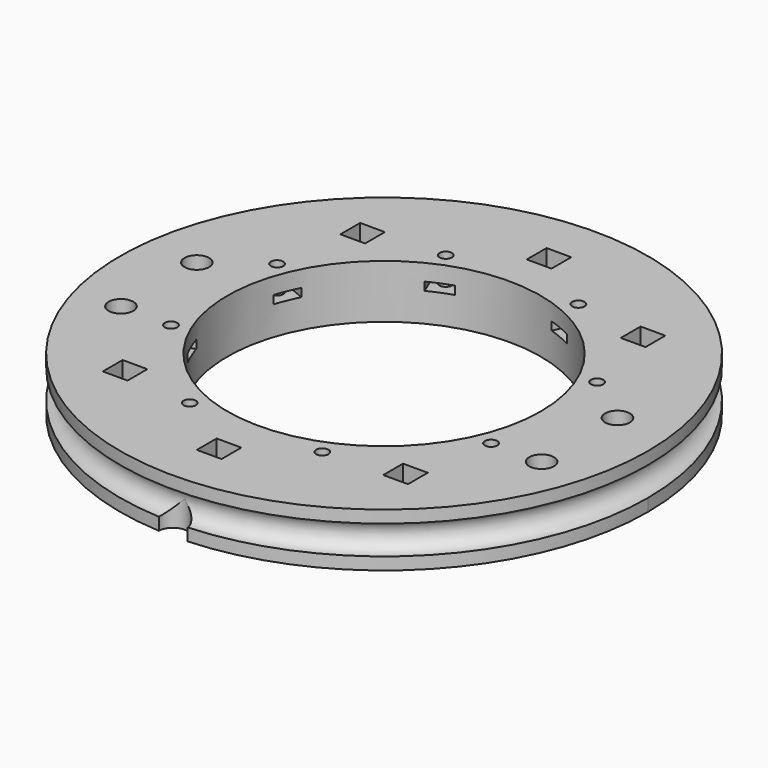
from build123d import *

# Parameters (mm, degrees)
BOX158_W                    = 6
BOX158_H                    = 8
BOX158_DEPTH                = 2
BOX158_PLACEMENT_ANGLE      = 67.5
BOX159_W                    = 6
BOX159_H                    = 8
BOX159_DEPTH                = 2
BOX159_PLACEMENT_ANGLE      = 112.5
BOX160_W                    = 6
BOX160_H                    = 8
BOX160_DEPTH                = 2
BOX160_PLACEMENT_ANGLE      = 157.5
BOX161_W                    = 6
BOX161_H                    = 8
BOX161_DEPTH                = 2
BOX161_PLACEMENT_ANGLE      = 202.5
BOX162_W                    = 6
BOX162_H                    = 8
BOX162_DEPTH                = 2
BOX162_PLACEMENT_ANGLE      = 112.5
BOX163_W                    = 6
BOX163_H                    = 8
BOX163_DEPTH                = 2
BOX163_PLACEMENT_ANGLE      = 67.5
BOX164_W                    = 6
BOX164_H                    = 8
BOX164_DEPTH                = 2
BOX164_PLACEMENT_ANGLE      = 22.5
BOX157_W                    = 6
BOX157_H                    = 8
BOX157_DEPTH                = 2
BOX157_PLACEMENT_ANGLE      = 22.5
CYLINDER469_R               = 1.5
CYLINDER469_DEPTH           = 100
CYLINDER470_R               = 1.5
CYLINDER470_DEPTH           = 100
CYLINDER470_PLACEMENT_ANGLE = 135
CYLINDER471_R               = 1.5
CYLINDER471_DEPTH           = 100
CYLINDER472_R               = 1.5
CYLINDER472_DEPTH           = 100
CYLINDER472_PLACEMENT_ANGLE = 225
CYLINDER473_R               = 1.5
CYLINDER473_DEPTH           = 100
CYLINDER474_R               = 1.5
CYLINDER474_DEPTH           = 100
CYLINDER474_PLACEMENT_ANGLE = 45
CYLINDER475_R               = 1.5
CYLINDER475_DEPTH           = 100
CYLINDER468_R               = 1.5
CYLINDER468_DEPTH           = 100
CYLINDER468_PLACEMENT_ANGLE = 45
BOX147_W                    = 6
BOX147_H                    = 6
BOX147_DEPTH                = 10
BOX146_W                    = 6
BOX146_H                    = 6
BOX146_DEPTH                = 10
BOX148_W                    = 6
BOX148_H                    = 6
BOX148_DEPTH                = 10
BOX149_W                    = 6
BOX149_H                    = 6
BOX149_DEPTH                = 10
BOX150_W                    = 6
BOX150_H                    = 6
BOX150_DEPTH                = 10
BOX145_W                    = 6
BOX145_H                    = 6
BOX145_DEPTH                = 10
CYLINDER411_R               = 3
CYLINDER411_DEPTH           = 7
CYLINDER409_R               = 3
CYLINDER409_DEPTH           = 7
CYLINDER410_R               = 3
CYLINDER410_DEPTH           = 7
CYLINDER408_R               = 3
CYLINDER408_DEPTH           = 7
CYLINDER371_R               = 1.5
CYLINDER371_DEPTH           = 50
CYLINDER372_R               = 1.5
CYLINDER372_DEPTH           = 50
CYLINDER373_R               = 1.5
CYLINDER373_DEPTH           = 50
CYLINDER374_R               = 1.5
CYLINDER374_DEPTH           = 50
CYLINDER375_R               = 1.5
CYLINDER375_DEPTH           = 50
CYLINDER376_R               = 1.5
CYLINDER376_DEPTH           = 100
CYLINDER377_R               = 1.5
CYLINDER377_DEPTH           = 50
CYLINDER378_R               = 1.5
CYLINDER378_DEPTH           = 50
CYLINDER379_R               = 1.5
CYLINDER379_DEPTH           = 100
CYLINDER370_R               = 1.5
CYLINDER370_DEPTH           = 50
CYLINDER288_R               = 3.5
CYLINDER288_DEPTH           = 20
TORUS_R                     = 3.5
TUBE019_R                   = 64
TUBE019_R_2                 = 38
TUBE019_DEPTH               = 13


with BuildPart() as krychle158:
    # Box158 → Box158 (new body)
    with BuildSketch(Plane.XY):
        with Locations((3, 4)):
            Rectangle(BOX158_W, BOX158_H)
    extrude(amount=BOX158_DEPTH)


with BuildPart() as krychle158_1:
    # Box158 placement: moved
    add(krychle158.part.moved(Location((40.426529, -19.992393, 25))).rotate(Axis((40.426529, -19.992393, 25), (0, 0, 1)), BOX158_PLACEMENT_ANGLE))


with BuildPart() as krychle159:
    # Box159 → Box159 (new body)
    with BuildSketch(Plane.XY):
        with Locations((3, 4)):
            Rectangle(BOX159_W, BOX159_H)
    extrude(amount=BOX159_DEPTH)


with BuildPart() as krychle159_1:
    # Box159 placement: moved
    add(krychle159.part.moved(Location((42.722629, 14.449116, 25))).rotate(Axis((42.722629, 14.449116, 25), (0, 0, 1)), BOX159_PLACEMENT_ANGLE))


with BuildPart() as krychle160:
    # Box160 → Box160 (new body)
    with BuildSketch(Plane.XY):
        with Locations((3, 4)):
            Rectangle(BOX160_W, BOX160_H)
    extrude(amount=BOX160_DEPTH)


with BuildPart() as krychle160_1:
    # Box160 placement: moved
    add(krychle160.part.moved(Location((19.992393, 40.426529, 25))).rotate(Axis((19.992393, 40.426529, 25), (0, 0, 1)), BOX160_PLACEMENT_ANGLE))


with BuildPart() as krychle161:
    # Box161 → Box161 (new body)
    with BuildSketch(Plane.XY):
        with Locations((3, 4)):
            Rectangle(BOX161_W, BOX161_H)
    extrude(amount=BOX161_DEPTH)


with BuildPart() as krychle161_1:
    # Box161 placement: moved
    add(krychle161.part.moved(Location((-14.449116, 42.722629, 25))).rotate(Axis((-14.449116, 42.722629, 25), (0, 0, 1)), BOX161_PLACEMENT_ANGLE))


with BuildPart() as krychle162:
    # Box162 → Box162 (new body)
    with BuildSketch(Plane.XY):
        with Locations((3, 4)):
            Rectangle(BOX162_W, BOX162_H)
    extrude(amount=BOX162_DEPTH)


with BuildPart() as krychle162_1:
    # Box162 placement: moved
    add(krychle162.part.moved(Location((-40.426529, 19.992393, 25))).rotate(Axis((-40.426529, 19.992393, 25), (0, 0, -1)), BOX162_PLACEMENT_ANGLE))


with BuildPart() as krychle163:
    # Box163 → Box163 (new body)
    with BuildSketch(Plane.XY):
        with Locations((3, 4)):
            Rectangle(BOX163_W, BOX163_H)
    extrude(amount=BOX163_DEPTH)


with BuildPart() as krychle163_1:
    # Box163 placement: moved
    add(krychle163.part.moved(Location((-42.722629, -14.449116, 25))).rotate(Axis((-42.722629, -14.449116, 25), (0, 0, -1)), BOX163_PLACEMENT_ANGLE))


with BuildPart() as krychle164:
    # Box164 → Box164 (new body)
    with BuildSketch(Plane.XY):
        with Locations((3, 4)):
            Rectangle(BOX164_W, BOX164_H)
    extrude(amount=BOX164_DEPTH)


with BuildPart() as krychle164_1:
    # Box164 placement: moved
    add(krychle164.part.moved(Location((-19.992393, -40.426529, 25))).rotate(Axis((-19.992393, -40.426529, 25), (0, 0, -1)), BOX164_PLACEMENT_ANGLE))


with BuildPart() as compound322:
    # Box157 → Box157 (new body)
    with BuildSketch(Plane.XY):
        with Locations((3, 4)):
            Rectangle(BOX157_W, BOX157_H)
    extrude(amount=BOX157_DEPTH)


with BuildPart() as compound322_1:
    # Box157 placement: moved
    add(compound322.part.moved(Location((14.449116, -42.722629, 25))).rotate(Axis((14.449116, -42.722629, 25), (0, 0, 1)), BOX157_PLACEMENT_ANGLE))

    # Compound322: union Krychle158, Krychle159, Krychle160, Krychle161, Krychle162, Krychle163, Krychle164
    add(krychle158_1.part)
    add(krychle159_1.part)
    add(krychle160_1.part)
    add(krychle161_1.part)
    add(krychle162_1.part)
    add(krychle163_1.part)
    add(krychle164_1.part)


with BuildPart() as obj1:
    # Cylinder469 → Cylinder469 (new body)
    with BuildSketch(Plane(origin=(38.80294, -16.072704, 0), x_dir=(0, 1, 0), z_dir=(0, 0, 1))):
        Circle(CYLINDER469_R)
    extrude(amount=CYLINDER469_DEPTH)


with BuildPart() as obj2:
    # Cylinder470 → Cylinder470 (new body)
    with BuildSketch(Plane.XY):
        Circle(CYLINDER470_R)
    extrude(amount=CYLINDER470_DEPTH)


with BuildPart() as obj2_1:
    # Cylinder470 placement: moved
    add(obj2.part.moved(Location((38.80294, 16.072704, 0))).rotate(Axis((38.80294, 16.072704, 0), (0, 0, 1)), CYLINDER470_PLACEMENT_ANGLE))


with BuildPart() as obj3:
    # Cylinder471 → Cylinder471 (new body)
    with BuildSketch(Plane(origin=(16.072704, 38.80294, 0), x_dir=(-1, 0, 0), z_dir=(0, 0, 1))):
        Circle(CYLINDER471_R)
    extrude(amount=CYLINDER471_DEPTH)


with BuildPart() as obj4:
    # Cylinder472 → Cylinder472 (new body)
    with BuildSketch(Plane.XY):
        Circle(CYLINDER472_R)
    extrude(amount=CYLINDER472_DEPTH)


with BuildPart() as obj4_1:
    # Cylinder472 placement: moved
    add(obj4.part.moved(Location((-16.072704, 38.80294, 0))).rotate(Axis((-16.072704, 38.80294, 0), (0, 0, 1)), CYLINDER472_PLACEMENT_ANGLE))


with BuildPart() as obj5:
    # Cylinder473 → Cylinder473 (new body)
    with BuildSketch(Plane(origin=(-38.80294, 16.072704, 0), x_dir=(0, -1, 0), z_dir=(0, 0, 1))):
        Circle(CYLINDER473_R)
    extrude(amount=CYLINDER473_DEPTH)


with BuildPart() as obj6:
    # Cylinder474 → Cylinder474 (new body)
    with BuildSketch(Plane.XY):
        Circle(CYLINDER474_R)
    extrude(amount=CYLINDER474_DEPTH)


with BuildPart() as obj6_1:
    # Cylinder474 placement: moved
    add(obj6.part.moved(Location((-38.80294, -16.072704, 0))).rotate(Axis((-38.80294, -16.072704, 0), (0, 0, -1)), CYLINDER474_PLACEMENT_ANGLE))


with BuildPart() as obj7:
    # Cylinder475 → Cylinder475 (new body)
    with BuildSketch(Plane(origin=(-16.072704, -38.80294, 0), x_dir=(1, 0, 0), z_dir=(0, 0, 1))):
        Circle(CYLINDER475_R)
    extrude(amount=CYLINDER475_DEPTH)


with BuildPart() as compound328:
    # Cylinder468 → Cylinder468 (new body)
    with BuildSketch(Plane.XY):
        Circle(CYLINDER468_R)
    extrude(amount=CYLINDER468_DEPTH)


with BuildPart() as compound328_1:
    # Cylinder468 placement: moved
    add(compound328.part.moved(Location((16.072704, -38.80294, 0))).rotate(Axis((16.072704, -38.80294, 0), (0, 0, 1)), CYLINDER468_PLACEMENT_ANGLE))

    # Compound328: union obj1, obj2, obj3, obj4, obj5, obj6, obj7
    add(obj1.part)
    add(obj2_1.part)
    add(obj3.part)
    add(obj4_1.part)
    add(obj5.part)
    add(obj6_1.part)
    add(obj7.part)


with BuildPart() as compound328_2:
    # Compound328 placement: moved
    add(compound328_1.part.moved(Location((0, 0, 20))))


with BuildPart() as krychle147:
    # Box147 → Box147 (new body)
    with BuildSketch(Plane(origin=(-37, -39, 40), x_dir=(1, 0, 0), z_dir=(0, 0, 1))):
        with Locations((3, 3)):
            Rectangle(BOX147_W, BOX147_H)
    extrude(amount=BOX147_DEPTH)


with BuildPart() as krychle146:
    # Box146 → Box146 (new body)
    with BuildSketch(Plane(origin=(-3, -53, 40), x_dir=(1, 0, 0), z_dir=(0, 0, 1))):
        with Locations((3, 3)):
            Rectangle(BOX146_W, BOX146_H)
    extrude(amount=BOX146_DEPTH)


with BuildPart() as krychle148:
    # Box148 → Box148 (new body)
    with BuildSketch(Plane(origin=(31, 33, 40), x_dir=(1, 0, 0), z_dir=(0, 0, 1))):
        with Locations((3, 3)):
            Rectangle(BOX148_W, BOX148_H)
    extrude(amount=BOX148_DEPTH)


with BuildPart() as krychle149:
    # Box149 → Box149 (new body)
    with BuildSketch(Plane(origin=(-37, 33, 40), x_dir=(1, 0, 0), z_dir=(0, 0, 1))):
        with Locations((3, 3)):
            Rectangle(BOX149_W, BOX149_H)
    extrude(amount=BOX149_DEPTH)


with BuildPart() as krychle150:
    # Box150 → Box150 (new body)
    with BuildSketch(Plane(origin=(31, -39, 40), x_dir=(1, 0, 0), z_dir=(0, 0, 1))):
        with Locations((3, 3)):
            Rectangle(BOX150_W, BOX150_H)
    extrude(amount=BOX150_DEPTH)


with BuildPart() as compound315:
    # Box145 → Box145 (new body)
    with BuildSketch(Plane(origin=(-3, 47, 40), x_dir=(1, 0, 0), z_dir=(0, 0, 1))):
        with Locations((3, 3)):
            Rectangle(BOX145_W, BOX145_H)
    extrude(amount=BOX145_DEPTH)

    # Compound315: union Krychle147, Krychle146, Krychle148, Krychle149, Krychle150
    add(krychle147.part)
    add(krychle146.part)
    add(krychle148.part)
    add(krychle149.part)
    add(krychle150.part)


with BuildPart() as compound315_1:
    # Compound315 placement: moved
    add(compound315.part.moved(Location((0, 0, -18))))


with BuildPart() as obj8:
    # Cylinder411 → Cylinder411 (new body)
    with BuildSketch(Plane(origin=(51, -16, 50), x_dir=(1, 0, 0), z_dir=(0, 0, 1))):
        Circle(CYLINDER411_R)
    extrude(amount=CYLINDER411_DEPTH)


with BuildPart() as obj9:
    # Cylinder409 → Cylinder409 (new body)
    with BuildSketch(Plane(origin=(51, 7, 50), x_dir=(1, 0, 0), z_dir=(0, 0, 1))):
        Circle(CYLINDER409_R)
    extrude(amount=CYLINDER409_DEPTH)


with BuildPart() as obj10:
    # Cylinder410 → Cylinder410 (new body)
    with BuildSketch(Plane(origin=(-51, 7, 50), x_dir=(1, 0, 0), z_dir=(0, 0, 1))):
        Circle(CYLINDER410_R)
    extrude(amount=CYLINDER410_DEPTH)


with BuildPart() as compound313:
    # Cylinder408 → Cylinder408 (new body)
    with BuildSketch(Plane(origin=(-51, -16, 50), x_dir=(1, 0, 0), z_dir=(0, 0, 1))):
        Circle(CYLINDER408_R)
    extrude(amount=CYLINDER408_DEPTH)

    # Compound313: union obj8, obj9, obj10
    add(obj8.part)
    add(obj9.part)
    add(obj10.part)


with BuildPart() as compound313_1:
    # Compound313 placement: moved
    add(compound313.part.moved(Location((0, 0, -25))))


with BuildPart() as obj11:
    # Cylinder371 → Cylinder371 (new body)
    with BuildSketch(Plane(origin=(34, 36, 0), x_dir=(1, 0, 0), z_dir=(0, 0, 1))):
        Circle(CYLINDER371_R)
    extrude(amount=CYLINDER371_DEPTH)


with BuildPart() as obj12:
    # Cylinder372 → Cylinder372 (new body)
    with BuildSketch(Plane(origin=(-34, -36, 0), x_dir=(1, 0, 0), z_dir=(0, 0, 1))):
        Circle(CYLINDER372_R)
    extrude(amount=CYLINDER372_DEPTH)


with BuildPart() as obj13:
    # Cylinder373 → Cylinder373 (new body)
    with BuildSketch(Plane(origin=(34, -36, 0), x_dir=(1, 0, 0), z_dir=(0, 0, 1))):
        Circle(CYLINDER373_R)
    extrude(amount=CYLINDER373_DEPTH)


with BuildPart() as obj14:
    # Cylinder374 → Cylinder374 (new body)
    with BuildSketch(Plane(origin=(0, 50, 0), x_dir=(1, 0, 0), z_dir=(0, 0, 1))):
        Circle(CYLINDER374_R)
    extrude(amount=CYLINDER374_DEPTH)


with BuildPart() as obj15:
    # Cylinder375 → Cylinder375 (new body)
    with BuildSketch(Plane(origin=(0, -50, 0), x_dir=(1, 0, 0), z_dir=(0, 0, 1))):
        Circle(CYLINDER375_R)
    extrude(amount=CYLINDER375_DEPTH)


with BuildPart() as obj16:
    # Cylinder376 → Cylinder376 (new body)
    with BuildSketch(Plane(origin=(-51, -16, 0), x_dir=(1, 0, 0), z_dir=(0, 0, 1))):
        Circle(CYLINDER376_R)
    extrude(amount=CYLINDER376_DEPTH)


with BuildPart() as obj17:
    # Cylinder377 → Cylinder377 (new body)
    with BuildSketch(Plane(origin=(51, 7, 0), x_dir=(1, 0, 0), z_dir=(0, 0, 1))):
        Circle(CYLINDER377_R)
    extrude(amount=CYLINDER377_DEPTH)


with BuildPart() as obj18:
    # Cylinder378 → Cylinder378 (new body)
    with BuildSketch(Plane(origin=(-51, 7, 0), x_dir=(1, 0, 0), z_dir=(0, 0, 1))):
        Circle(CYLINDER378_R)
    extrude(amount=CYLINDER378_DEPTH)


with BuildPart() as obj19:
    # Cylinder379 → Cylinder379 (new body)
    with BuildSketch(Plane(origin=(51, -16, 0), x_dir=(1, 0, 0), z_dir=(0, 0, 1))):
        Circle(CYLINDER379_R)
    extrude(amount=CYLINDER379_DEPTH)


with BuildPart() as compound308:
    # Cylinder370 → Cylinder370 (new body)
    with BuildSketch(Plane(origin=(-34, 36, 0), x_dir=(1, 0, 0), z_dir=(0, 0, 1))):
        Circle(CYLINDER370_R)
    extrude(amount=CYLINDER370_DEPTH)

    # Compound308: union obj11, obj12, obj13, obj14, obj15, obj16, obj17, obj18, obj19
    add(obj11.part)
    add(obj12.part)
    add(obj13.part)
    add(obj14.part)
    add(obj15.part)
    add(obj16.part)
    add(obj17.part)
    add(obj18.part)
    add(obj19.part)


with BuildPart() as obj20:
    # Cylinder288 → Cylinder288 (new body)
    with BuildSketch(Plane(origin=(0, -64, 4.5), x_dir=(1, 0, 0), z_dir=(0, 0, 1))):
        Circle(CYLINDER288_R)
    extrude(amount=CYLINDER288_DEPTH)


with BuildPart() as obj21:
    # Torus → Torus (revolve)
    with BuildSketch(Plane(origin=(0, 0, 24.5), x_dir=(1, 0, 0), z_dir=(0, -1, 0))):
        with Locations((64, 0)):
            Circle(TORUS_R)
    revolve(axis=Axis((0, 0, 24.5), (0, 0, 1)))


with BuildPart() as cut175:
    # Tube019 → Tube019 (new body)
    with BuildSketch(Plane.XY.offset(18)):
        Circle(TUBE019_R)
        Circle(TUBE019_R_2, mode=Mode.SUBTRACT)
    extrude(amount=TUBE019_DEPTH)

    # Cut129: cut obj21
    add(obj21.part, mode=Mode.SUBTRACT)

    # Cut130: cut obj20
    add(obj20.part, mode=Mode.SUBTRACT)

    # Cut160: cut Compound308
    add(compound308.part, mode=Mode.SUBTRACT)

    # Cut162: cut Compound313
    add(compound313_1.part, mode=Mode.SUBTRACT)

    # Cut164: cut Compound315
    add(compound315_1.part, mode=Mode.SUBTRACT)

    # Cut174: cut Compound328
    add(compound328_2.part, mode=Mode.SUBTRACT)

    # Cut175: cut Compound322
    add(compound322_1.part, mode=Mode.SUBTRACT)


solid = cut175.part
